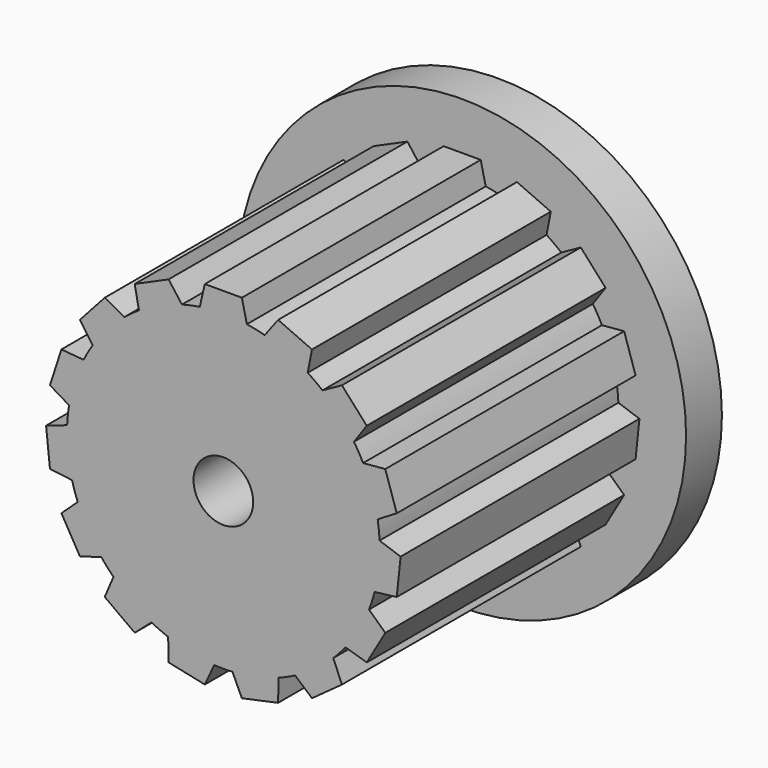
from build123d import *

# Parameters (mm, degrees)
F0_R     = 2
F1_DEPTH = 20
F2_R     = 15
F3_DEPTH = 3


with BuildPart() as f1:
    # F0 (on Front) → F1 (new body)
    with BuildSketch(Plane.XZ):
        with BuildLine():
            ThreePointArc((10.134032, -2.650853), (10.389408, -1.336346), (10.475, 0))
            ThreePointArc((10.475, 0), (10.47218, 0.243036), (10.463722, 0.485942))
            ThreePointArc((10.463722, 0.485942), (10.417617, 1.094936), (10.336098, 1.700207))
            ThreePointArc((10.336098, 1.700207), (9.962317, 3.236953), (9.361436, 4.699909))
            ThreePointArc((9.361436, 4.699909), (9.071616, 5.2375), (8.750959, 5.757286))
            ThreePointArc((8.750959, 5.757286), (7.784442, 7.009143), (6.640472, 8.10122))
            ThreePointArc((6.640472, 8.10122), (6.157051, 8.474453), (5.652699, 8.818878))
            ThreePointArc((5.652699, 8.818878), (4.260566, 9.569389), (2.77131, 10.101756))
            ThreePointArc((2.77131, 10.101756), (2.177875, 10.246096), (1.577037, 10.355606))
            ThreePointArc((1.577037, 10.355606), (0, 10.475), (-1.577037, 10.355606))
            ThreePointArc((-1.577037, 10.355606), (-2.177875, 10.246096), (-2.77131, 10.101756))
            ThreePointArc((-2.77131, 10.101756), (-4.260566, 9.569389), (-5.652699, 8.818878))
            ThreePointArc((-5.652699, 8.818878), (-6.157051, 8.474453), (-6.640472, 8.10122))
            ThreePointArc((-6.640472, 8.10122), (-7.784442, 7.009143), (-8.750959, 5.757286))
            ThreePointArc((-8.750959, 5.757286), (-9.071616, 5.2375), (-9.361436, 4.699909))
            ThreePointArc((-9.361436, 4.699909), (-9.962317, 3.236953), (-10.336098, 1.700207))
            ThreePointArc((-10.336098, 1.700207), (-10.417617, 1.094936), (-10.463722, 0.485942))
            ThreePointArc((-10.463722, 0.485942), (-10.417617, -1.094936), (-10.134032, -2.650853))
            ThreePointArc((-10.134032, -2.650853), (-9.962317, -3.236953), (-9.756736, -3.812049))
            ThreePointArc((-9.756736, -3.812049), (-9.071616, -5.2375), (-8.1797, -6.543557))
            ThreePointArc((-8.1797, -6.543557), (-7.784442, -7.009143), (-7.362722, -7.450903))
            ThreePointArc((-7.362722, -7.450903), (-6.157051, -8.474453), (-4.811023, -9.30482))
            ThreePointArc((-4.811023, -9.30482), (-4.260566, -9.569389), (-3.695626, -9.801427))
            ThreePointArc((-3.695626, -9.801427), (-2.177875, -10.246096), (-0.610477, -10.457196))
            ThreePointArc((-0.610477, -10.457196), (0, -10.475), (0.610477, -10.457196))
            ThreePointArc((0.610477, -10.457196), (2.177875, -10.246096), (3.695626, -9.801427))
            ThreePointArc((3.695626, -9.801427), (4.260566, -9.569389), (4.811023, -9.30482))
            ThreePointArc((4.811023, -9.30482), (6.157051, -8.474453), (7.362722, -7.450903))
            ThreePointArc((7.362722, -7.450903), (7.784442, -7.009143), (8.1797, -6.543557))
            ThreePointArc((8.1797, -6.543557), (9.071616, -5.2375), (9.756736, -3.812049))
            ThreePointArc((9.756736, -3.812049), (9.962317, -3.236953), (10.134032, -2.650853))
        make_face()
        Circle(F0_R, mode=Mode.SUBTRACT)
        with BuildLine():
            ThreePointArc((10.463722, 0.485942), (10.47218, 0.243036), (10.475, 0))
            ThreePointArc((10.475, 0), (10.389408, -1.336346), (10.134032, -2.650853))
            Line((10.134032, -2.650853), (11.615503, -2.468951))
            Line((11.615503, -2.468951), (11.875, 0))
            Line((11.875, 0), (10.463722, 0.485942))
        make_face()
        with BuildLine():
            ThreePointArc((9.361436, 4.699909), (9.962317, 3.236953), (10.336098, 1.700207))
            Line((10.336098, 1.700207), (11.615503, 2.468951))
            Line((11.615503, 2.468951), (10.848352, 4.829998))
            Line((10.848352, 4.829998), (9.361436, 4.699909))
        make_face()
        with BuildLine():
            Line((10.848352, -4.829998), (9.756736, -3.812049))
            ThreePointArc((9.756736, -3.812049), (9.071616, -5.2375), (8.1797, -6.543557))
            Line((8.1797, -6.543557), (9.607077, -6.97995))
            Line((9.607077, -6.97995), (10.848352, -4.829998))
        make_face()
        with BuildLine():
            ThreePointArc((6.640472, 8.10122), (7.784442, 7.009143), (8.750959, 5.757286))
            Line((8.750959, 5.757286), (9.607077, 6.97995))
            Line((9.607077, 6.97995), (7.945926, 8.824845))
            Line((7.945926, 8.824845), (6.640472, 8.10122))
        make_face()
        with BuildLine():
            Line((7.945926, -8.824845), (7.362722, -7.450903))
            ThreePointArc((7.362722, -7.450903), (6.157051, -8.474453), (4.811023, -9.30482))
            Line((4.811023, -9.30482), (5.9375, -10.284052))
            Line((5.9375, -10.284052), (7.945926, -8.824845))
        make_face()
        with BuildLine():
            ThreePointArc((2.77131, 10.101756), (4.260566, 9.569389), (5.652699, 8.818878))
            Line((5.652699, 8.818878), (5.9375, 10.284052))
            Line((5.9375, 10.284052), (3.669577, 11.293796))
            Line((3.669577, 11.293796), (2.77131, 10.101756))
        make_face()
        with BuildLine():
            Line((3.669577, -11.293796), (3.695626, -9.801427))
            ThreePointArc((3.695626, -9.801427), (2.177875, -10.246096), (0.610477, -10.457196))
            Line((0.610477, -10.457196), (1.241276, -11.809948))
            Line((1.241276, -11.809948), (3.669577, -11.293796))
        make_face()
        with BuildLine():
            ThreePointArc((-1.577037, 10.355606), (0, 10.475), (1.577037, 10.355606))
            Line((1.577037, 10.355606), (1.241276, 11.809948))
            Line((1.241276, 11.809948), (-1.241276, 11.809948))
            Line((-1.241276, 11.809948), (-1.577037, 10.355606))
        make_face()
        with BuildLine():
            Line((-1.241276, -11.809948), (-0.610477, -10.457196))
            ThreePointArc((-0.610477, -10.457196), (-2.177875, -10.246096), (-3.695626, -9.801427))
            Line((-3.695626, -9.801427), (-3.669577, -11.293796))
            Line((-3.669577, -11.293796), (-1.241276, -11.809948))
        make_face()
        with BuildLine():
            ThreePointArc((-5.652699, 8.818878), (-4.260566, 9.569389), (-2.77131, 10.101756))
            Line((-2.77131, 10.101756), (-3.669577, 11.293796))
            Line((-3.669577, 11.293796), (-5.9375, 10.284052))
            Line((-5.9375, 10.284052), (-5.652699, 8.818878))
        make_face()
        with BuildLine():
            Line((-5.9375, -10.284052), (-4.811023, -9.30482))
            ThreePointArc((-4.811023, -9.30482), (-6.157051, -8.474453), (-7.362722, -7.450903))
            Line((-7.362722, -7.450903), (-7.945926, -8.824845))
            Line((-7.945926, -8.824845), (-5.9375, -10.284052))
        make_face()
        with BuildLine():
            ThreePointArc((-8.750959, 5.757286), (-7.784442, 7.009143), (-6.640472, 8.10122))
            Line((-6.640472, 8.10122), (-7.945926, 8.824845))
            Line((-7.945926, 8.824845), (-9.607077, 6.97995))
            Line((-9.607077, 6.97995), (-8.750959, 5.757286))
        make_face()
        with BuildLine():
            Line((-9.607077, -6.97995), (-8.1797, -6.543557))
            ThreePointArc((-8.1797, -6.543557), (-9.071616, -5.2375), (-9.756736, -3.812049))
            Line((-9.756736, -3.812049), (-10.848352, -4.829998))
            Line((-10.848352, -4.829998), (-9.607077, -6.97995))
        make_face()
        with BuildLine():
            ThreePointArc((-10.336098, 1.700207), (-9.962317, 3.236953), (-9.361436, 4.699909))
            Line((-9.361436, 4.699909), (-10.848352, 4.829998))
            Line((-10.848352, 4.829998), (-11.615503, 2.468951))
            Line((-11.615503, 2.468951), (-10.336098, 1.700207))
        make_face()
        with BuildLine():
            Line((-11.615503, -2.468951), (-10.134032, -2.650853))
            ThreePointArc((-10.134032, -2.650853), (-10.417617, -1.094936), (-10.463722, 0.485942))
            Line((-10.463722, 0.485942), (-11.875, 0))
            Line((-11.875, 0), (-11.615503, -2.468951))
        make_face()
    extrude(amount=F1_DEPTH)

    # F2 (on Front) → F3 (join)
    with BuildSketch(Plane.XZ):
        Circle(F2_R)
    extrude(amount=-F3_DEPTH)


solid = f1.part
